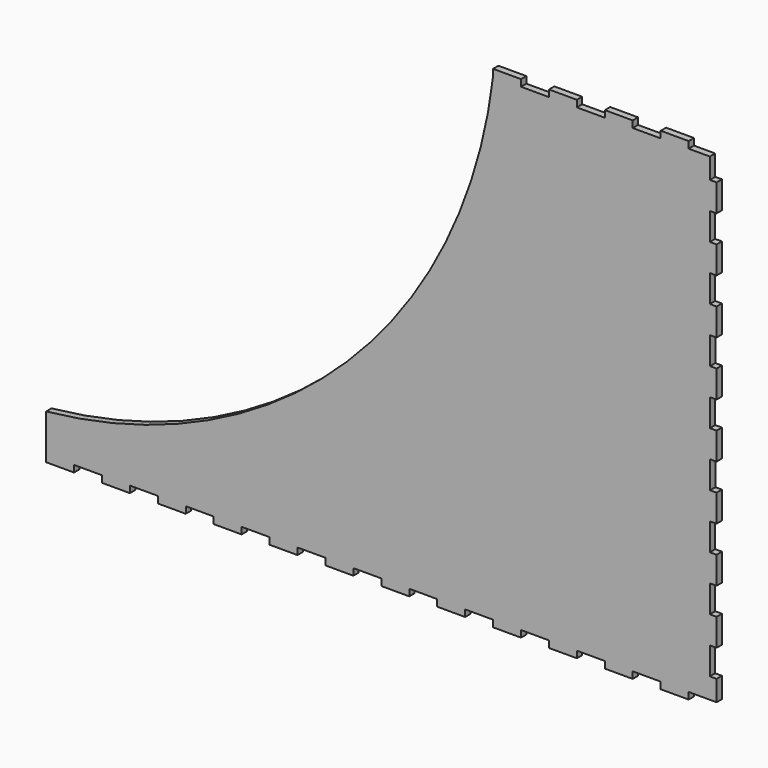
from build123d import *

# Parameters (mm, degrees)
F1_DEPTH = 3


with BuildPart() as f1:
    # F0 (on Front) → F1 (new body)
    with BuildSketch(Plane.XZ):
        with BuildLine():
            Line((125, -110), (137.5, -110))
            Line((137.5, -110), (137.5, -107))
            Line((137.5, -107), (150, -107))
            Line((150, -107), (150, -97.778))
            Line((150, -97.778), (147, -97.778))
            Line((147, -97.778), (147, -85.556))
            Line((147, -85.556), (150, -85.556))
            Line((150, -85.556), (150, -73.334))
            Line((150, -73.334), (147, -73.334))
            Line((147, -73.334), (147, -61.112))
            Line((147, -61.112), (150, -61.112))
            Line((150, -61.112), (150, -48.89))
            Line((150, -48.89), (147, -48.89))
            Line((147, -48.89), (147, -36.668))
            Line((147, -36.668), (150, -36.668))
            Line((150, -36.668), (150, -24.446))
            Line((150, -24.446), (147.078618, -24.446))
            Line((147.078618, -24.446), (147, -12.224))
            Line((147, -12.224), (150, -12.224))
            Line((150, -12.224), (150, -0.002))
            Line((150, -0.002), (147, -0.002))
            Line((147, -0.002), (147, 0.002))
            Line((147, 0.002), (147, 12.224))
            Line((147, 12.224), (150, 12.224))
            Line((150, 12.224), (150, 24.446))
            Line((150, 24.446), (147.078618, 24.446))
            Line((147.078618, 24.446), (147, 36.668))
            Line((147, 36.668), (150, 36.668))
            Line((150, 36.668), (150, 48.89))
            Line((150, 48.89), (147, 48.89))
            Line((147, 48.89), (147, 61.112))
            Line((147, 61.112), (150, 61.112))
            Line((150, 61.112), (150, 73.334))
            Line((150, 73.334), (147, 73.334))
            Line((147, 73.334), (147, 85.556))
            Line((147, 85.556), (150, 85.556))
            Line((150, 85.556), (150, 97.778))
            Line((150, 97.778), (147, 97.778))
            Line((147, 97.778), (147, 107))
            Line((147, 107), (137.5, 107))
            Line((137.5, 107), (137.5, 110))
            Line((137.5, 110), (125, 110))
            Line((125, 110), (125, 107))
            Line((125, 107), (112.5, 107))
            Line((112.5, 107), (112.5, 110))
            Line((112.5, 110), (100, 110))
            Line((100, 110), (100, 107))
            Line((100, 107), (87.5, 107))
            Line((87.5, 107), (87.5, 110))
            Line((87.5, 110), (75, 110))
            Line((75, 110), (75, 107))
            Line((75, 107), (62.5, 107))
            Line((62.5, 107), (62.5, 110))
            Line((62.5, 110), (50, 110))
            Line((50, 110), (50, 107))
            ThreePointArc((50, 107), (-15.39775, -26.629188), (-150, -90))
            Line((-150, -90), (-150, -110))
            Line((-150, -110), (-137.5, -110))
            Line((-137.5, -110), (-137.5, -107))
            Line((-137.5, -107), (-125, -107))
            Line((-125, -107), (-125, -110))
            Line((-125, -110), (-112.5, -110))
            Line((-112.5, -110), (-112.5, -107))
            Line((-112.5, -107), (-100, -107))
            Line((-100, -107), (-100, -110))
            Line((-100, -110), (-87.5, -110))
            Line((-87.5, -110), (-87.5, -107))
            Line((-87.5, -107), (-75, -107))
            Line((-75, -107), (-75, -110))
            Line((-75, -110), (-62.5, -110))
            Line((-62.5, -110), (-62.5, -107))
            Line((-62.5, -107), (-50, -107))
            Line((-50, -107), (-50, -110))
            Line((-50, -110), (-37.5, -110))
            Line((-37.5, -110), (-37.5, -107))
            Line((-37.5, -107), (-25, -107))
            Line((-25, -107), (-25, -110))
            Line((-25, -110), (-12.5, -110))
            Line((-12.5, -110), (-12.5, -107))
            Line((-12.5, -107), (0, -107))
            Line((0, -107), (0, -110))
            Line((0, -110), (12.5, -110))
            Line((12.5, -110), (12.5, -107))
            Line((12.5, -107), (25, -107))
            Line((25, -107), (25, -110))
            Line((25, -110), (37.5, -110))
            Line((37.5, -110), (37.5, -107))
            Line((37.5, -107), (50, -107))
            Line((50, -107), (50, -110))
            Line((50, -110), (62.5, -110))
            Line((62.5, -110), (62.5, -107))
            Line((62.5, -107), (75, -107))
            Line((75, -107), (75, -110))
            Line((75, -110), (87.5, -110))
            Line((87.5, -110), (87.5, -107))
            Line((87.5, -107), (100, -107))
            Line((100, -107), (100, -110))
            Line((100, -110), (112.5, -110))
            Line((112.5, -110), (112.5, -107))
            Line((112.5, -107), (125, -107))
            Line((125, -107), (125, -110))
        make_face()
    extrude(amount=F1_DEPTH)


solid = f1.part
